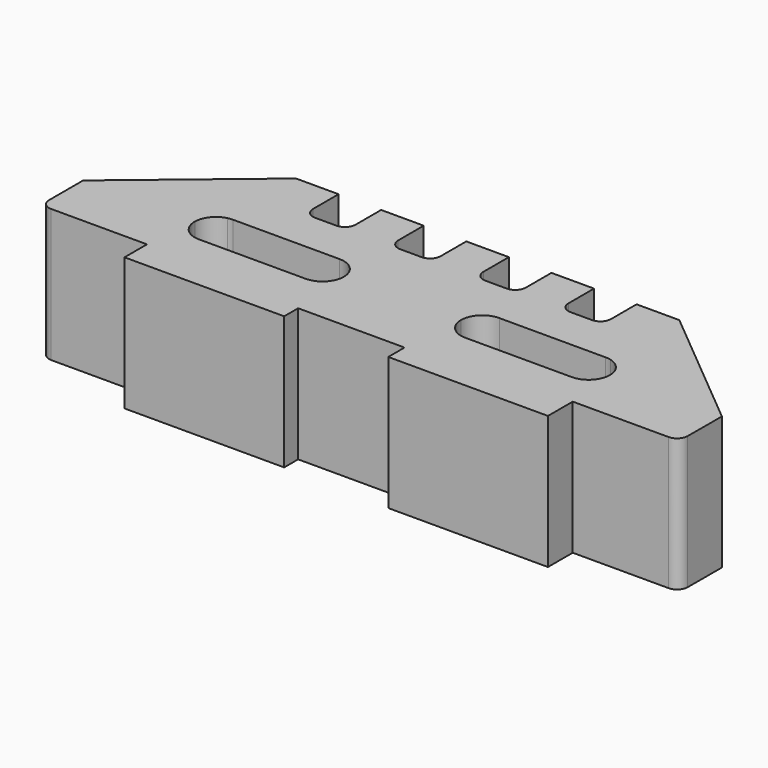
from build123d import *

# Parameters (mm, degrees)
F1_DEPTH = 25


with BuildPart() as f1:
    # F0 (on Top) → F1 (new body)
    with BuildSketch(Plane.XY):
        with BuildLine():
            Line((-75, 17.161901), (-75, 33.278717))
            Line((-75, 33.278717), (-99, 13.278717))
            Line((-99, 13.278717), (-99, 5.278717))
            ThreePointArc((-99, 5.278717), (-98.414214, 3.864503), (-97, 3.278717))
            Line((-97, 3.278717), (-79, 3.278717))
            Line((-79, 3.278717), (-79, -1.999241))
            Line((-79, -1.999241), (-75, -1.999241))
            Line((-75, -1.999241), (-75, 9.395945))
            ThreePointArc((-75, 9.395945), (-77.202197, 10.829057), (-78.040169, 13.319295))
            Line((-78.040169, 13.319295), (-78.040164, 13.319706))
            ThreePointArc((-78.040164, 13.319706), (-77.177183, 15.760739), (-75, 17.161901))
        make_face()
        with BuildLine():
            Line((-67, 33.278717), (-75, 33.278717))
            Line((-75, 33.278717), (-75, 17.161901))
            ThreePointArc((-75, 17.161901), (-74.523729, 17.249405), (-74.040374, 17.278717))
            Line((-74.040374, 17.278717), (-54, 17.278717))
            ThreePointArc((-54, 17.278717), (-51.171718, 16.107289), (-50, 13.279128))
            Line((-50, 13.279128), (-50, 13.278717))
            ThreePointArc((-50, 13.278717), (-51.171718, 10.450556), (-54, 9.279128))
            Line((-54, 9.279128), (-74.04037, 9.279128))
            ThreePointArc((-74.04037, 9.279128), (-74.523727, 9.30844), (-75, 9.395945))
            Line((-75, 9.395945), (-75, -1.999241))
            Line((-75, -1.999241), (-49, -1.999241))
            Line((-49, -1.999241), (-49, 1.278717))
            Line((-49, 1.278717), (-39, 1.278717))
            Line((-39, 1.278717), (-29, 1.278717))
            Line((-29, 1.278717), (-29, -2.541677))
            Line((-29, -2.541677), (-2.966445, -2.541677))
            Line((-2.966445, -2.541677), (-2.966445, 9.414552))
            ThreePointArc((-2.966445, 9.414552), (-3.478779, 9.312821), (-4, 9.278717))
            Line((-4, 9.278717), (-24, 9.278717))
            ThreePointArc((-24, 9.278717), (-26.828427, 10.450289), (-28, 13.278717))
            ThreePointArc((-28, 13.278717), (-26.828427, 16.107144), (-24, 17.278717))
            Line((-24, 17.278717), (-4, 17.278717))
            ThreePointArc((-4, 17.278717), (-3.478779, 17.244612), (-2.966445, 17.142881))
            Line((-2.966445, 17.142881), (-2.966445, 33.278717))
            Line((-2.966445, 33.278717), (-11, 33.278717))
            Line((-11, 33.278717), (-11, 27.278717))
            ThreePointArc((-11, 27.278717), (-11.585786, 25.864503), (-13, 25.278717))
            Line((-13, 25.278717), (-17, 25.278717))
            ThreePointArc((-17, 25.278717), (-18.414214, 25.864503), (-19, 27.278717))
            Line((-19, 27.278717), (-19, 33.278717))
            Line((-19, 33.278717), (-27, 33.278717))
            Line((-27, 33.278717), (-27, 27.278717))
            ThreePointArc((-27, 27.278717), (-27.585786, 25.864503), (-29, 25.278717))
            Line((-29, 25.278717), (-33, 25.278717))
            ThreePointArc((-33, 25.278717), (-34.414214, 25.864503), (-35, 27.278717))
            Line((-35, 27.278717), (-35, 33.278717))
            Line((-35, 33.278717), (-43, 33.278717))
            Line((-43, 33.278717), (-43, 27.278717))
            ThreePointArc((-43, 27.278717), (-43.585786, 25.864503), (-45, 25.278717))
            Line((-45, 25.278717), (-49, 25.278717))
            ThreePointArc((-49, 25.278717), (-50.414214, 25.864503), (-51, 27.278717))
            Line((-51, 27.278717), (-51, 33.278717))
            Line((-51, 33.278717), (-59, 33.278717))
            Line((-59, 33.278717), (-59, 27.278717))
            ThreePointArc((-59, 27.278717), (-59.585786, 25.864503), (-61, 25.278717))
            Line((-61, 25.278717), (-65, 25.278717))
            ThreePointArc((-65, 25.278717), (-66.414214, 25.864503), (-67, 27.278717))
            Line((-67, 27.278717), (-67, 33.278717))
        make_face()
        with BuildLine():
            Line((-2.966445, 9.414552), (-2.966445, -2.541677))
            Line((-2.966445, -2.541677), (1, -2.541677))
            Line((1, -2.541677), (1, 3.278773))
            Line((1, 3.278773), (19.0067, 3.278773))
            ThreePointArc((19.0067, 3.278773), (20.418539, 3.862189), (21.006688, 5.272062))
            Line((21.006688, 5.272062), (21.033555, 13.278717))
            Line((21.033555, 13.278717), (-2.966445, 33.278717))
            Line((-2.966445, 33.278717), (-2.966445, 17.142881))
            ThreePointArc((-2.966445, 17.142881), (-0.827129, 15.714469), (0, 13.278717))
            ThreePointArc((0, 13.278717), (-0.827129, 10.842964), (-2.966445, 9.414552))
        make_face()
    extrude(amount=F1_DEPTH)


solid = f1.part
